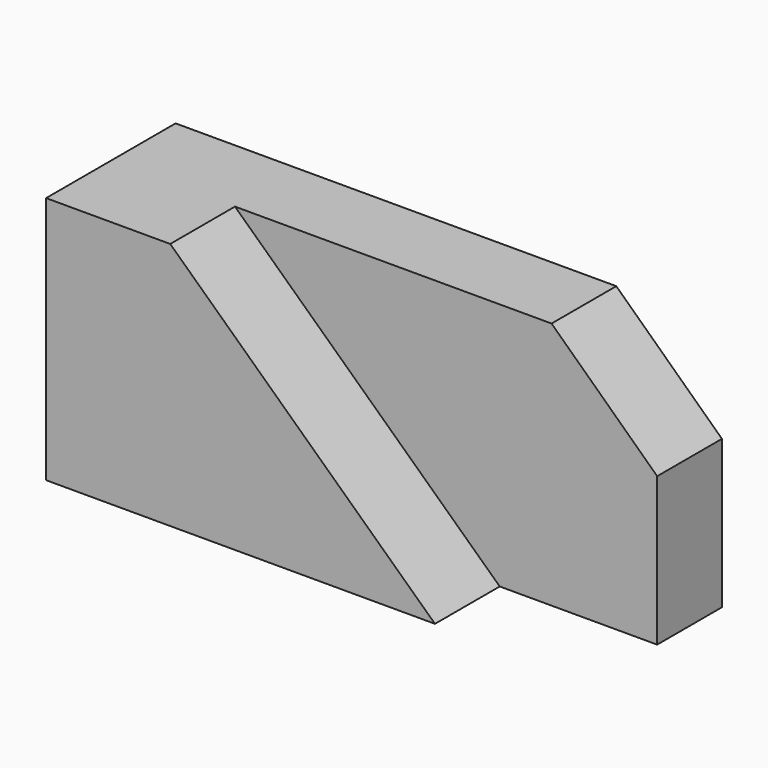
from build123d import *

# Parameters (mm, degrees)
F1_DEPTH = 38.1
F2_DEPTH = 19.05


with BuildPart() as f1:
    # F0 (on Front) → F1 (new body)
    with BuildSketch(Plane.XZ):
        Polygon((-35.211802, 23.551881), (-64.43767, 23.551881), (-64.43767, -34.910742), (27.111696, -34.910742), align=None)
    extrude(amount=F1_DEPTH)

    # F0 (on Front) → F2 (join)
    with BuildSketch(Plane.XZ):
        Polygon((39.315434, 23.551881), (-35.211802, 23.551881), (27.111696, -34.910742), (64.180101, -34.910742), (64.180101, 0), align=None)
    extrude(amount=F2_DEPTH)


solid = f1.part
